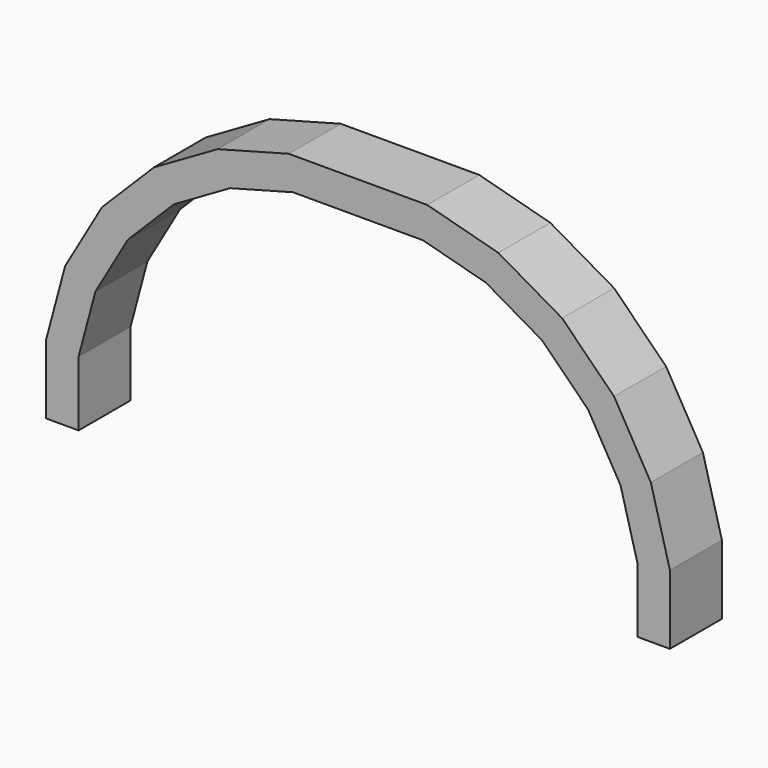
from build123d import *

# Parameters (mm, degrees)
F1_DEPTH = 10


with BuildPart() as f1:
    # F0 (on Front) → F1 (new body)
    with BuildSketch(Plane.XZ):
        Polygon((0, 0), (5.000002, 0), (5.000002, 10), (7.588192, 19.659258), (12.588192, 28.319512), (19.65926, 35.39058), (28.319514, 40.39058), (37.978773, 42.978771), (47.978773, 42.978771), (47.978773, 47.978773), (37.32051, 47.978773), (26.389586, 45.04984), (16.589187, 39.391577), (8.587195, 31.389586), (2.928932, 21.589187), (0, 10.658263), align=None)
    extrude(amount=F1_DEPTH)

    # F2: F1 across face


with BuildPart() as f1_1:
    add(f1.part)
    add(f1.part.mirror(Plane(origin=(47.978773, -5, 45.478772), x_dir=(0, 1, 0), z_dir=(1, 0, 0))))


solid = f1_1.part
